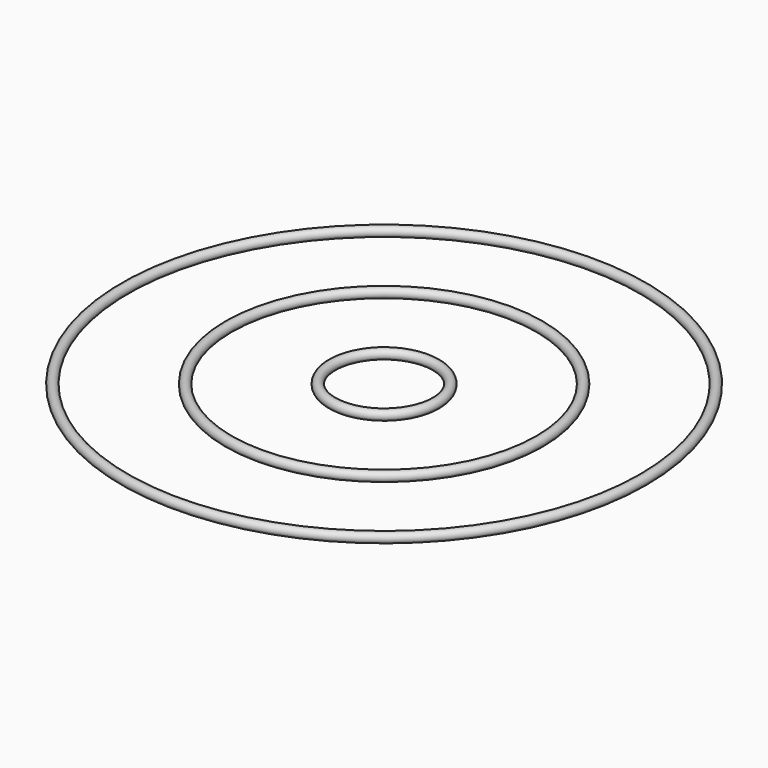
from build123d import *

# Parameters (mm, degrees)
F0_R = 9.525


with BuildPart() as f1:
    # F0 (on Front) → F1 (revolve)
    with BuildSketch(Plane.XZ):
        with Locations((101.6, 0)):
            Circle(F0_R)
        with Locations((304.8, 0)):
            Circle(F0_R)
        with Locations((508, 0)):
            Circle(F0_R)
    revolve(axis=Axis((0, 0, 33.472188), (0, 0, 1)))


solid = f1.part
